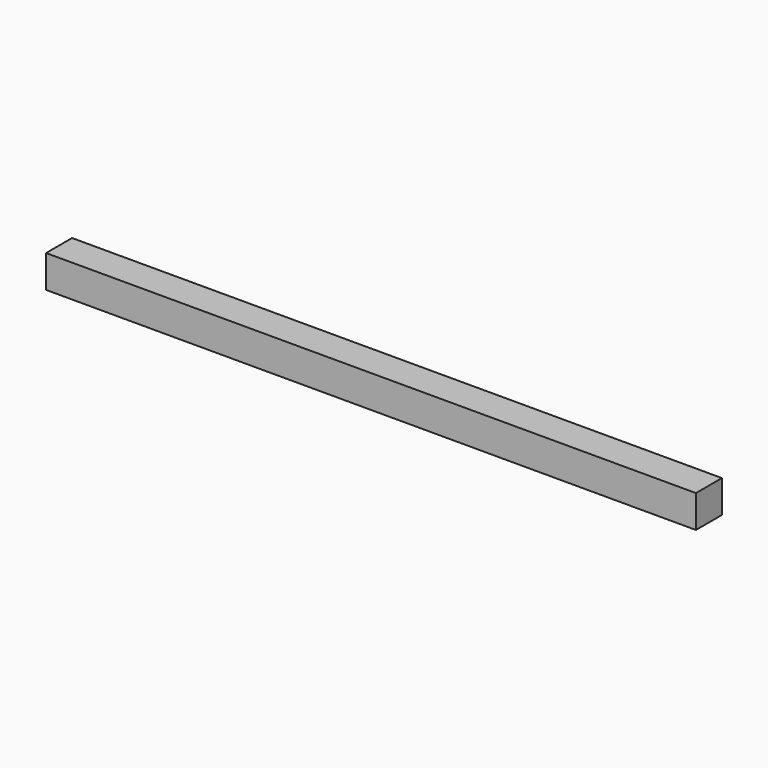
from build123d import *

# Parameters (mm, degrees)
SKETCH_W  = 10
SKETCH_H  = 10
PAD_DEPTH = 200


with BuildPart() as part:
    # Sketch → Pad (new body)
    with BuildSketch(Plane.YZ):
        with Locations((-5.085012, 5.088415)):
            Rectangle(SKETCH_W, SKETCH_H)
    extrude(amount=PAD_DEPTH)


solid = part.part
